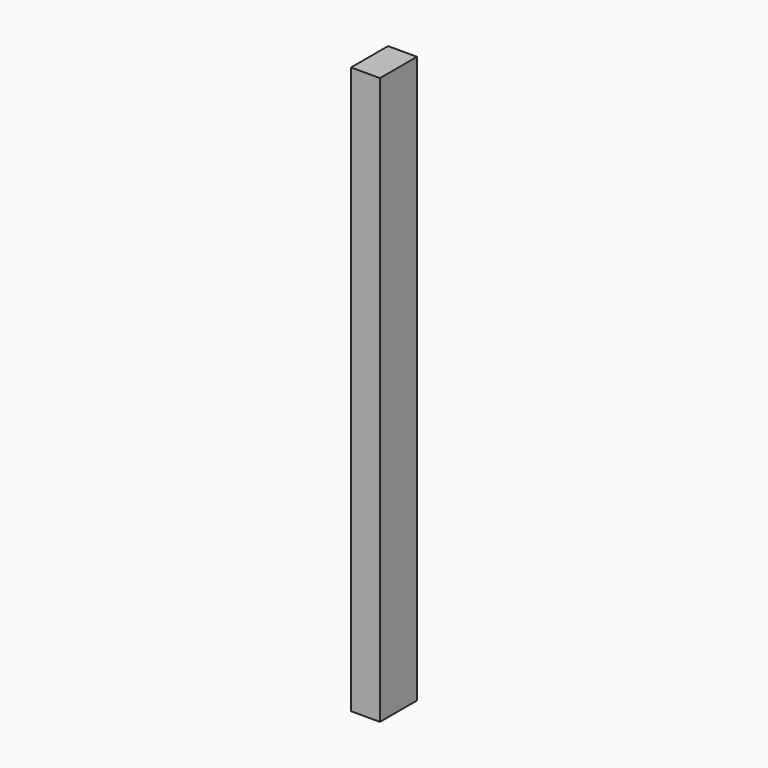
from build123d import *

# Parameters (mm, degrees)
RECTANGLE065_W   = 6
RECTANGLE065_H   = 6
EXTRUDE079_DEPTH = 7.5
FACEBINDER013_W  = 4
FACEBINDER013_H  = 2.5
EXTRUDE052_DEPTH = 55


with BuildPart() as extrude079:
    # Rectangle065 → Extrude079 (new body)
    with BuildSketch(Plane(origin=(-250, 6, 64), x_dir=(0, -1, 0), z_dir=(-1, 0, 0))):
        with Locations((3, 3)):
            Rectangle(RECTANGLE065_W, RECTANGLE065_H)
    extrude(amount=-EXTRUDE079_DEPTH)


with BuildPart() as cut001:
    # Facebinder013 → Extrude052 (new body)
    with BuildSketch(Plane(origin=(-241.25, 2, 70), x_dir=(0, -1, 0), z_dir=(0, 0, -1))):
        Rectangle(FACEBINDER013_W, FACEBINDER013_H)
    extrude(amount=EXTRUDE052_DEPTH)


with BuildPart() as cut001_1:
    # Extrude052 placement: moved
    add(cut001.part.moved(Location((-2.5, 0, 0))))

    # Cut001: cut Extrude079
    add(extrude079.part, mode=Mode.SUBTRACT)


solid = cut001_1.part
